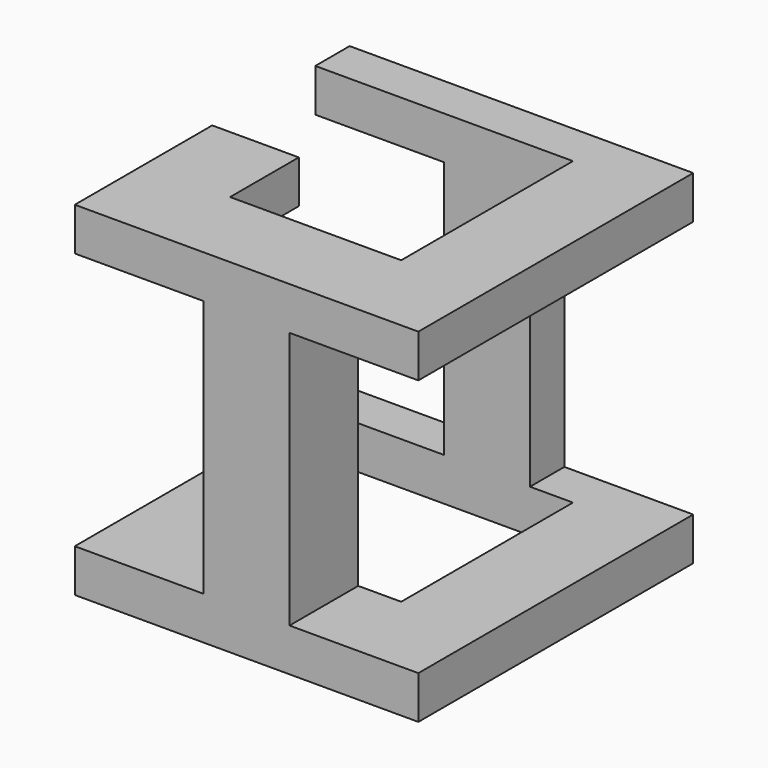
from build123d import *

# Parameters (mm, degrees)
F0_W     = 50.8
F0_H     = 50.8
F1_DEPTH = 50.8
F4_W     = 19.05
F4_H     = 38.1
F5_DEPTH = 50.8
F7_DEPTH = 76.2


with BuildPart() as f1:
    # F0 (on Front) → F1 (new body)
    with BuildSketch(Plane.XZ):
        Rectangle(F0_W, F0_H)
    extrude(amount=F1_DEPTH)

    # F4 (on offset) → F5 (cut)
    with BuildSketch(Plane.XZ.offset(50.8)):
        with Locations((-15.875, 0)):
            Rectangle(F4_W, F4_H)
        with Locations((15.875, 0)):
            Rectangle(F4_W, F4_H)
    extrude(amount=-F5_DEPTH, mode=Mode.SUBTRACT)

    # F6 (on offset) → F7 (cut)
    with BuildSketch(Plane.XY.offset(50.8)):
        Polygon((-25.4, -6.35), (-25.4, -25.4), (-12.5995083759, -25.4), (-12.5995083759, -38.1), (12.7, -38.1), (12.7, -6.35), align=None)
    extrude(amount=-F7_DEPTH, mode=Mode.SUBTRACT)


solid = f1.part
